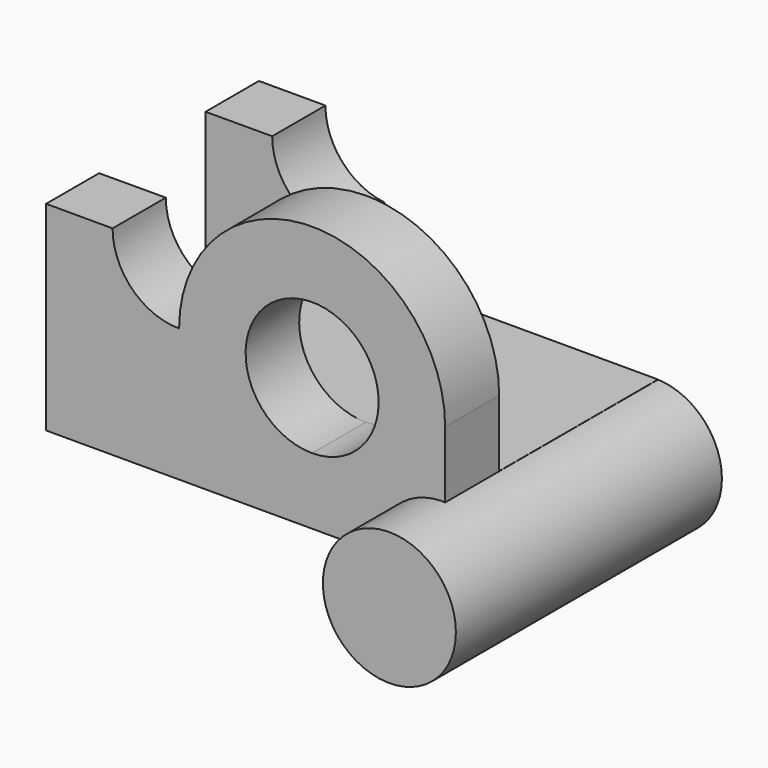
from build123d import *

# Parameters (mm, degrees)
F1_DEPTH = 40
F4_DEPTH = 30
F5_R     = 10
F6_DEPTH = 50


with BuildPart() as f1:
    # F0 (on Front) → F1 (new body)
    with BuildSketch(Plane.XZ):
        with BuildLine():
            Line((-26.3786203787, 30), (-26.3786203787, 0))
            Line((-26.3786203787, 0), (33.6213796213, 0))
            Line((33.6213796213, 0), (33.6213796213, 10))
            Line((33.6213796213, 10), (13.6213796213, 10))
            Line((13.6213796213, 10), (-6.3786203787, 10))
            Line((-6.3786203787, 10), (-6.3786203787, 20))
            ThreePointArc((-6.3786203787, 20), (-13.4496881905, 22.9289321881), (-16.3786203787, 30))
            Line((-16.3786203787, 30), (-26.3786203787, 30))
        make_face()
        with BuildLine():
            Line((13.6213796213, 10), (33.6213796213, 10))
            Line((33.6213796213, 10), (33.6213796213, 20))
            ThreePointArc((33.6213796213, 20), (13.6213796213, 40), (-6.3786203787, 20))
            Line((-6.3786203787, 20), (-6.3786203787, 10))
            Line((-6.3786203787, 10), (13.6213796213, 10))
        make_face()
        with BuildLine():
            ThreePointArc((23.6213796213, 20), (20.6924474332, 12.9289321881), (13.6213796213, 10))
            ThreePointArc((13.6213796213, 10), (6.5503118095, 27.0710678119), (23.6213796213, 20))
        make_face(mode=Mode.SUBTRACT)
    extrude(amount=F1_DEPTH)

    # F3 (on offset) → F4 (cut)
    with BuildSketch(Plane.XY.offset(40)):
        Polygon((34.5625896442, -29.8374285476), (34.5625896442, -10.029780087), (34.5625896442, 0.1627235876), (-7.532738143, 0.0286622326), (-7.5008912179, -9.9712870559), (-27.5007897949, -10.0349809062), (-27.4370959447, -30.0348794832), (-16.4371517273, -29.9998478656), align=None)
    extrude(amount=-F4_DEPTH, mode=Mode.SUBTRACT)


with BuildPart() as f6:
    # F5 (on Front) → F6 (new body)
    with BuildSketch(Plane.XZ):
        with Locations((33.2377943532, 0)):
            Circle(F5_R)
    extrude(amount=F6_DEPTH)


solid = Compound([f1.part, f6.part])
